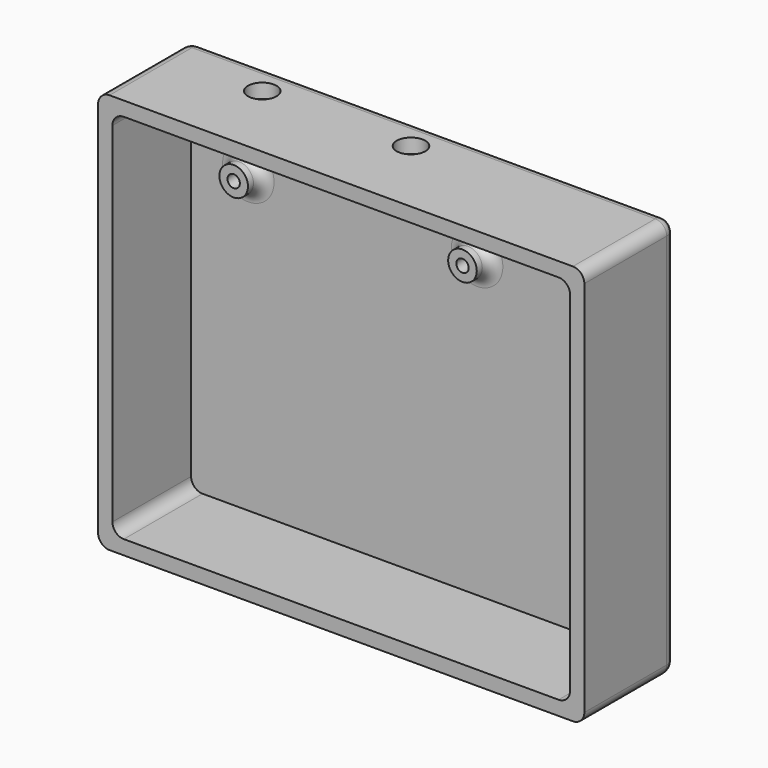
from build123d import *

# Parameters (mm, degrees)
F0_W     = 107.95
F0_H     = 88.9
F0_W_2   = 101.6
F0_H_2   = 82.55
F0_R     = 3.175
F1_DEPTH = 3.556
F0_R_2   = 1.375
F2_DEPTH = 7.62
F3_DEPTH = 25.4
F4_R     = 3.175
F5_DEPTH = 5.08
F6_R     = 2.54


with BuildPart() as f1:
    # F0 (on Front) → F1 (new body)
    with BuildSketch(Plane.XZ):
        Rectangle(F0_W, F0_H)
        Rectangle(F0_W_2, F0_H_2, mode=Mode.SUBTRACT)
        Rectangle(F0_W_2, F0_H_2)
        with Locations((-38.1, 24.765)):
            Circle(F0_R, mode=Mode.SUBTRACT)
        with Locations((12.7, 24.765)):
            Circle(F0_R, mode=Mode.SUBTRACT)
    extrude(amount=F1_DEPTH)

    # F0 (on Front) → F2 (join)
    with BuildSketch(Plane.XZ):
        with Locations((-38.1, 24.765)):
            Circle(F0_R)
        with Locations((-38.1, 24.765)):
            Circle(F0_R_2, mode=Mode.SUBTRACT)
        with Locations((12.7, 24.765)):
            Circle(F0_R)
        with Locations((12.7, 24.765)):
            Circle(F0_R_2, mode=Mode.SUBTRACT)
    extrude(amount=F2_DEPTH)

    # F0 (on Front) → F3 (join)
    with BuildSketch(Plane.XZ):
        Rectangle(F0_W, F0_H)
        Rectangle(F0_W_2, F0_H_2, mode=Mode.SUBTRACT)
    extrude(amount=F3_DEPTH)

    # F4 (on face) → F5 (cut)
    with BuildSketch(Plane.XY.offset(44.45)):
        with Locations((1.27, -7.62)):
            Circle(F4_R)
        with Locations((-31.75, -7.62)):
            Circle(F4_R)
    extrude(amount=-F5_DEPTH, mode=Mode.SUBTRACT)

    # F6
    f6_edges = [f1.edges().sort_by_distance(p)[0] for p in [
        (-53.975, -12.7, 44.45),
        (-50.8, -14.478, 41.275),
        (53.975, -12.7, 44.45),
        (-53.975, -12.7, -44.45),
        (50.8, -14.478, 41.275),
        (-50.8, -14.478, -41.275),
        (53.975, -12.7, -44.45),
        (50.8, -14.478, -41.275),
        (0, 0, -44.45),
        (53.975, 0, 0),
        (-53.975, 0, 0),
        (0, 0, 44.45),
        (9.525, -3.556, 24.765),
        (-41.275, -3.556, 24.765),
    ]]
    fillet(f6_edges, radius=F6_R)


solid = f1.part
